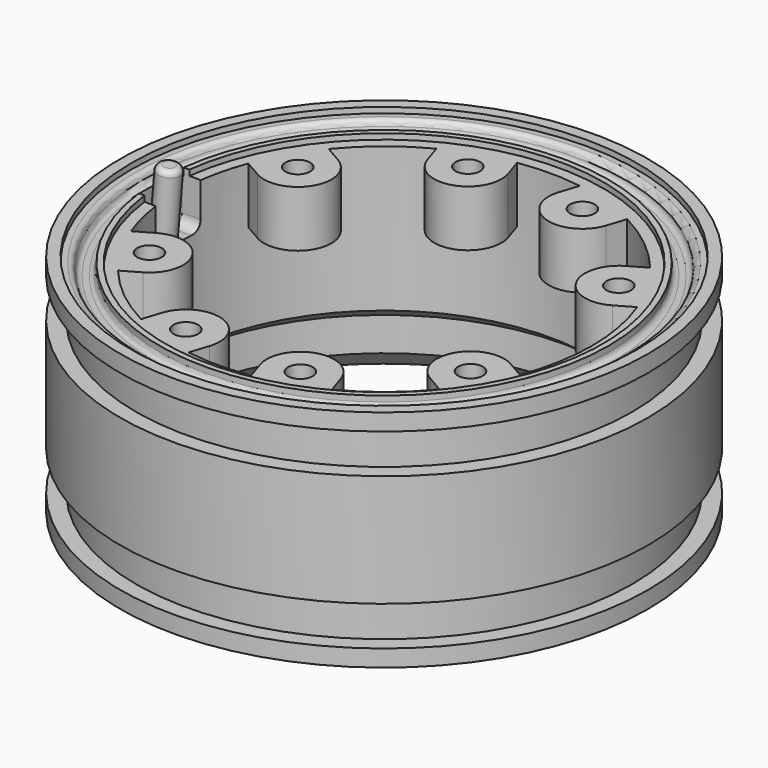
from build123d import *

# Parameters (mm, degrees)
BOX_W                       = 10
BOX_H                       = 5
BOX_DEPTH                   = 5
FILLET_R                    = 1
CYLINDER132_R               = 1.1
CYLINDER132_DEPTH           = 5
BOX015_W                    = 3
BOX015_H                    = 6
BOX015_DEPTH                = 5
CYLINDER133_R               = 3
CYLINDER133_DEPTH           = 5
CUT061009_PLACEMENT_ANGLE   = 108
CYLINDER131_R               = 1.1
CYLINDER131_DEPTH           = 5
BOX014_W                    = 3
BOX014_H                    = 6
BOX014_DEPTH                = 5
CYLINDER130_R               = 3
CYLINDER130_DEPTH           = 5
CUT061008_PLACEMENT_ANGLE   = 72
CYLINDER141_R               = 1.1
CYLINDER141_DEPTH           = 5
BOX019_W                    = 3
BOX019_H                    = 6
BOX019_DEPTH                = 5
CYLINDER140_R               = 3
CYLINDER140_DEPTH           = 5
CUT061013_PLACEMENT_ANGLE   = 150
CYLINDER139_R               = 1.1
CYLINDER139_DEPTH           = 5
BOX018_W                    = 3
BOX018_H                    = 6
BOX018_DEPTH                = 5
CYLINDER138_R               = 3
CYLINDER138_DEPTH           = 5
CUT061012_PLACEMENT_ANGLE   = 108
CYLINDER137_R               = 1.1
CYLINDER137_DEPTH           = 5
BOX017_W                    = 3
BOX017_H                    = 6
BOX017_DEPTH                = 5
CYLINDER136_R               = 3
CYLINDER136_DEPTH           = 5
CUT061011_PLACEMENT_ANGLE   = 72
CYLINDER134_R               = 1.1
CYLINDER134_DEPTH           = 5
BOX016_W                    = 3
BOX016_H                    = 6
BOX016_DEPTH                = 5
CYLINDER135_R               = 3
CYLINDER135_DEPTH           = 5
CUT061010_PLACEMENT_ANGLE   = 210
CYLINDER124_R               = 1.1
CYLINDER124_DEPTH           = 5
BOX012_W                    = 3
BOX012_H                    = 6
BOX012_DEPTH                = 5
CYLINDER125_R               = 3
CYLINDER125_DEPTH           = 5
CUT061003_PLACEMENT_ANGLE   = 30
CYLINDER129_R               = 1.1
CYLINDER129_DEPTH           = 5
BOX013_W                    = 3
BOX013_H                    = 6
BOX013_DEPTH                = 5
CYLINDER128_R               = 3
CYLINDER128_DEPTH           = 5
CUT061007_PLACEMENT_ANGLE   = 30
CYLINDER127_R               = 20
CYLINDER127_DEPTH           = 2
CYLINDER126_R               = 21.5
CYLINDER126_DEPTH           = 2
CYLINDER070_R               = 20
CYLINDER070_DEPTH           = 5
CYLINDER007_R               = 19.5
CYLINDER007_DEPTH           = 1
CYLINDER018_R               = 22.5
CYLINDER018_DEPTH           = 0.5
CYLINDER006_R               = 18.5
CYLINDER006_DEPTH           = 20
CYLINDER002_R               = 22.1
CYLINDER002_DEPTH           = 17
CYLINDER001_R               = 23.5
CYLINDER001_DEPTH           = 17
CYLINDER_R                  = 23.5
CYLINDER_DEPTH              = 20
CYLINDER003_R               = 22
CYLINDER003_DEPTH           = 17
CYLINDER004_R               = 23.5
CYLINDER004_DEPTH           = 10
CHAMFER_SIZE                = 2
FILLET061_R                 = 1.5
FILLET062_R                 = 0.499
FILLET063_R                 = 0.9
CYLINDER232_R               = 1
CYLINDER232_DEPTH           = 10
CYLINDER232_PLACEMENT_ANGLE = 5
FILLET064_R                 = 0.5


with BuildPart() as fillet_body:
    # Box → Box (new body)
    with BuildSketch(Plane(origin=(-19, -2.5, 15), x_dir=(1, 0, 0), z_dir=(0, 0, 1))):
        with Locations((5, 2.5)):
            Rectangle(BOX_W, BOX_H)
    extrude(amount=BOX_DEPTH)

    # Fillet
    fillet_edges = [fillet_body.edges().sort_by_distance(p)[0] for p in [
        (-19, -2.5, 17.5),
        (-19, 2.5, 17.5),
        (-19, 0, 15),
    ]]
    fillet(fillet_edges, radius=FILLET_R)


with BuildPart() as fillet_body_1:
    # Fillet placement: moved
    add(fillet_body.part.moved(Location((-2, 0, 0))))


with BuildPart() as cylinder132:
    # Cylinder132 → Cylinder132 (new body)
    with BuildSketch(Plane(origin=(16.5, 0, 15), x_dir=(1, 0, 0), z_dir=(0, 0, 1))):
        Circle(CYLINDER132_R)
    extrude(amount=CYLINDER132_DEPTH)


with BuildPart() as cube015:
    # Box015 → Box015 (new body)
    with BuildSketch(Plane(origin=(16.5, -3, 15), x_dir=(1, 0, 0), z_dir=(0, 0, 1))):
        with Locations((1.5, 3)):
            Rectangle(BOX015_W, BOX015_H)
    extrude(amount=BOX015_DEPTH)


with BuildPart() as cut061009:
    # Cylinder133 → Cylinder133 (new body)
    with BuildSketch(Plane(origin=(16.5, 0, 15), x_dir=(1, 0, 0), z_dir=(0, 0, 1))):
        Circle(CYLINDER133_R)
    extrude(amount=CYLINDER133_DEPTH)

    # Fusion055: union Cube015
    add(cube015.part)

    # Cut061009: cut Cylinder132
    add(cylinder132.part, mode=Mode.SUBTRACT)


with BuildPart() as cut061009_1:
    # Cut061009 placement: moved
    add(cut061009.part.moved(Location((0, 0, -2))).rotate(Axis((0, 0, -2), (0, 0, -1)), CUT061009_PLACEMENT_ANGLE))


with BuildPart() as cylinder131:
    # Cylinder131 → Cylinder131 (new body)
    with BuildSketch(Plane(origin=(16.5, 0, 15), x_dir=(1, 0, 0), z_dir=(0, 0, 1))):
        Circle(CYLINDER131_R)
    extrude(amount=CYLINDER131_DEPTH)


with BuildPart() as cube014:
    # Box014 → Box014 (new body)
    with BuildSketch(Plane(origin=(16.5, -3, 15), x_dir=(1, 0, 0), z_dir=(0, 0, 1))):
        with Locations((1.5, 3)):
            Rectangle(BOX014_W, BOX014_H)
    extrude(amount=BOX014_DEPTH)


with BuildPart() as cut061008:
    # Cylinder130 → Cylinder130 (new body)
    with BuildSketch(Plane(origin=(16.5, 0, 15), x_dir=(1, 0, 0), z_dir=(0, 0, 1))):
        Circle(CYLINDER130_R)
    extrude(amount=CYLINDER130_DEPTH)

    # Fusion054: union Cube014
    add(cube014.part)

    # Cut061008: cut Cylinder131
    add(cylinder131.part, mode=Mode.SUBTRACT)


with BuildPart() as cut061008_1:
    # Cut061008 placement: moved
    add(cut061008.part.moved(Location((0, 0, -2))).rotate(Axis((0, 0, -2), (0, 0, -1)), CUT061008_PLACEMENT_ANGLE))


with BuildPart() as cylinder141:
    # Cylinder141 → Cylinder141 (new body)
    with BuildSketch(Plane(origin=(16.5, 0, 15), x_dir=(1, 0, 0), z_dir=(0, 0, 1))):
        Circle(CYLINDER141_R)
    extrude(amount=CYLINDER141_DEPTH)


with BuildPart() as cube019:
    # Box019 → Box019 (new body)
    with BuildSketch(Plane(origin=(16.5, -3, 15), x_dir=(1, 0, 0), z_dir=(0, 0, 1))):
        with Locations((1.5, 3)):
            Rectangle(BOX019_W, BOX019_H)
    extrude(amount=BOX019_DEPTH)


with BuildPart() as cut061013:
    # Cylinder140 → Cylinder140 (new body)
    with BuildSketch(Plane(origin=(16.5, 0, 15), x_dir=(1, 0, 0), z_dir=(0, 0, 1))):
        Circle(CYLINDER140_R)
    extrude(amount=CYLINDER140_DEPTH)

    # Fusion059: union Cube019
    add(cube019.part)

    # Cut061013: cut Cylinder141
    add(cylinder141.part, mode=Mode.SUBTRACT)


with BuildPart() as cut061013_1:
    # Cut061013 placement: moved
    add(cut061013.part.moved(Location((0, 0, -2))).rotate(Axis((0, 0, -2), (0, 0, 1)), CUT061013_PLACEMENT_ANGLE))


with BuildPart() as cylinder139:
    # Cylinder139 → Cylinder139 (new body)
    with BuildSketch(Plane(origin=(16.5, 0, 15), x_dir=(1, 0, 0), z_dir=(0, 0, 1))):
        Circle(CYLINDER139_R)
    extrude(amount=CYLINDER139_DEPTH)


with BuildPart() as cube018:
    # Box018 → Box018 (new body)
    with BuildSketch(Plane(origin=(16.5, -3, 15), x_dir=(1, 0, 0), z_dir=(0, 0, 1))):
        with Locations((1.5, 3)):
            Rectangle(BOX018_W, BOX018_H)
    extrude(amount=BOX018_DEPTH)


with BuildPart() as cut061012:
    # Cylinder138 → Cylinder138 (new body)
    with BuildSketch(Plane(origin=(16.5, 0, 15), x_dir=(1, 0, 0), z_dir=(0, 0, 1))):
        Circle(CYLINDER138_R)
    extrude(amount=CYLINDER138_DEPTH)

    # Fusion058: union Cube018
    add(cube018.part)

    # Cut061012: cut Cylinder139
    add(cylinder139.part, mode=Mode.SUBTRACT)


with BuildPart() as cut061012_1:
    # Cut061012 placement: moved
    add(cut061012.part.moved(Location((0, 0, -2))).rotate(Axis((0, 0, -2), (0, 0, 1)), CUT061012_PLACEMENT_ANGLE))


with BuildPart() as cylinder137:
    # Cylinder137 → Cylinder137 (new body)
    with BuildSketch(Plane(origin=(16.5, 0, 15), x_dir=(1, 0, 0), z_dir=(0, 0, 1))):
        Circle(CYLINDER137_R)
    extrude(amount=CYLINDER137_DEPTH)


with BuildPart() as cube017:
    # Box017 → Box017 (new body)
    with BuildSketch(Plane(origin=(16.5, -3, 15), x_dir=(1, 0, 0), z_dir=(0, 0, 1))):
        with Locations((1.5, 3)):
            Rectangle(BOX017_W, BOX017_H)
    extrude(amount=BOX017_DEPTH)


with BuildPart() as cut061011:
    # Cylinder136 → Cylinder136 (new body)
    with BuildSketch(Plane(origin=(16.5, 0, 15), x_dir=(1, 0, 0), z_dir=(0, 0, 1))):
        Circle(CYLINDER136_R)
    extrude(amount=CYLINDER136_DEPTH)

    # Fusion057: union Cube017
    add(cube017.part)

    # Cut061011: cut Cylinder137
    add(cylinder137.part, mode=Mode.SUBTRACT)


with BuildPart() as cut061011_1:
    # Cut061011 placement: moved
    add(cut061011.part.moved(Location((0, 0, -2))).rotate(Axis((0, 0, -2), (0, 0, 1)), CUT061011_PLACEMENT_ANGLE))


with BuildPart() as cylinder134:
    # Cylinder134 → Cylinder134 (new body)
    with BuildSketch(Plane(origin=(16.5, 0, 15), x_dir=(1, 0, 0), z_dir=(0, 0, 1))):
        Circle(CYLINDER134_R)
    extrude(amount=CYLINDER134_DEPTH)


with BuildPart() as cube016:
    # Box016 → Box016 (new body)
    with BuildSketch(Plane(origin=(16.5, -3, 15), x_dir=(1, 0, 0), z_dir=(0, 0, 1))):
        with Locations((1.5, 3)):
            Rectangle(BOX016_W, BOX016_H)
    extrude(amount=BOX016_DEPTH)


with BuildPart() as cut061010:
    # Cylinder135 → Cylinder135 (new body)
    with BuildSketch(Plane(origin=(16.5, 0, 15), x_dir=(1, 0, 0), z_dir=(0, 0, 1))):
        Circle(CYLINDER135_R)
    extrude(amount=CYLINDER135_DEPTH)

    # Fusion056: union Cube016
    add(cube016.part)

    # Cut061010: cut Cylinder134
    add(cylinder134.part, mode=Mode.SUBTRACT)


with BuildPart() as cut061010_1:
    # Cut061010 placement: moved
    add(cut061010.part.moved(Location((0, 0, -2))).rotate(Axis((0, 0, -2), (0, 0, 1)), CUT061010_PLACEMENT_ANGLE))


with BuildPart() as cylinder124:
    # Cylinder124 → Cylinder124 (new body)
    with BuildSketch(Plane(origin=(16.5, 0, 15), x_dir=(1, 0, 0), z_dir=(0, 0, 1))):
        Circle(CYLINDER124_R)
    extrude(amount=CYLINDER124_DEPTH)


with BuildPart() as cube012:
    # Box012 → Box012 (new body)
    with BuildSketch(Plane(origin=(16.5, -3, 15), x_dir=(1, 0, 0), z_dir=(0, 0, 1))):
        with Locations((1.5, 3)):
            Rectangle(BOX012_W, BOX012_H)
    extrude(amount=BOX012_DEPTH)


with BuildPart() as cut061003:
    # Cylinder125 → Cylinder125 (new body)
    with BuildSketch(Plane(origin=(16.5, 0, 15), x_dir=(1, 0, 0), z_dir=(0, 0, 1))):
        Circle(CYLINDER125_R)
    extrude(amount=CYLINDER125_DEPTH)

    # Fusion052: union Cube012
    add(cube012.part)

    # Cut061003: cut Cylinder124
    add(cylinder124.part, mode=Mode.SUBTRACT)


with BuildPart() as cut061003_1:
    # Cut061003 placement: moved
    add(cut061003.part.moved(Location((0, 0, -2))).rotate(Axis((0, 0, -2), (0, 0, -1)), CUT061003_PLACEMENT_ANGLE))


with BuildPart() as cylinder129:
    # Cylinder129 → Cylinder129 (new body)
    with BuildSketch(Plane(origin=(16.5, 0, 15), x_dir=(1, 0, 0), z_dir=(0, 0, 1))):
        Circle(CYLINDER129_R)
    extrude(amount=CYLINDER129_DEPTH)


with BuildPart() as cube013:
    # Box013 → Box013 (new body)
    with BuildSketch(Plane(origin=(16.5, -3, 15), x_dir=(1, 0, 0), z_dir=(0, 0, 1))):
        with Locations((1.5, 3)):
            Rectangle(BOX013_W, BOX013_H)
    extrude(amount=BOX013_DEPTH)


with BuildPart() as fusion060:
    # Cylinder128 → Cylinder128 (new body)
    with BuildSketch(Plane(origin=(16.5, 0, 15), x_dir=(1, 0, 0), z_dir=(0, 0, 1))):
        Circle(CYLINDER128_R)
    extrude(amount=CYLINDER128_DEPTH)

    # Fusion053: union Cube013
    add(cube013.part)

    # Cut061007: cut Cylinder129
    add(cylinder129.part, mode=Mode.SUBTRACT)


with BuildPart() as fusion060_1:
    # Cut061007 placement: moved
    add(fusion060.part.moved(Location((0, 0, -2))).rotate(Axis((0, 0, -2), (0, 0, 1)), CUT061007_PLACEMENT_ANGLE))

    # Fusion060: union Cut061009, Cut061008, Cut061013, Cut061012, Cut061011, Cut061010, Cut061003
    add(cut061009_1.part)
    add(cut061008_1.part)
    add(cut061013_1.part)
    add(cut061012_1.part)
    add(cut061011_1.part)
    add(cut061010_1.part)
    add(cut061003_1.part)


with BuildPart() as fusion060_2:
    # Fusion060 placement: moved
    add(fusion060_1.part.moved(Location((0, 0, 1))))


with BuildPart() as cylinder127:
    # Cylinder127 → Cylinder127 (new body)
    with BuildSketch(Plane.XY.offset(19)):
        Circle(CYLINDER127_R)
    extrude(amount=CYLINDER127_DEPTH)


with BuildPart() as cut061004:
    # Cylinder126 → Cylinder126 (new body)
    with BuildSketch(Plane.XY.offset(19)):
        Circle(CYLINDER126_R)
    extrude(amount=CYLINDER126_DEPTH)

    # Cut061004: cut Cylinder127
    add(cylinder127.part, mode=Mode.SUBTRACT)


with BuildPart() as cut061004_1:
    # Cut061004 placement: moved
    add(cut061004.part.moved(Location((0, 0, -0.5))))


with BuildPart() as cone:
    # Cone → Cone (revolve)
    with BuildSketch(Plane(origin=(0, 0, 5), x_dir=(1, 0, 0), z_dir=(0, -1, 0))):
        Polygon((0, 0), (20, 0), (12, 6), (0, 6), align=None)
    revolve(axis=Axis((0, 0, 5), (0, 0, 1)))


with BuildPart() as cylinder070:
    # Cylinder070 → Cylinder070 (new body)
    with BuildSketch(Plane.XY):
        Circle(CYLINDER070_R)
    extrude(amount=CYLINDER070_DEPTH)


with BuildPart() as cylinder007:
    # Cylinder007 → Cylinder007 (new body)
    with BuildSketch(Plane.XY.offset(19)):
        Circle(CYLINDER007_R)
    extrude(amount=CYLINDER007_DEPTH)


with BuildPart() as cylinder018:
    # Cylinder018 → Cylinder018 (new body)
    with BuildSketch(Plane.XY.offset(19.5)):
        Circle(CYLINDER018_R)
    extrude(amount=CYLINDER018_DEPTH)


with BuildPart() as cylinder006:
    # Cylinder006 → Cylinder006 (new body)
    with BuildSketch(Plane.XY):
        Circle(CYLINDER006_R)
    extrude(amount=CYLINDER006_DEPTH)


with BuildPart() as cylinder002:
    # Cylinder002 → Cylinder002 (new body)
    with BuildSketch(Plane.XY):
        Circle(CYLINDER002_R)
    extrude(amount=CYLINDER002_DEPTH)


with BuildPart() as cut:
    # Cylinder001 → Cylinder001 (new body)
    with BuildSketch(Plane.XY):
        Circle(CYLINDER001_R)
    extrude(amount=CYLINDER001_DEPTH)

    # Cut: cut Cylinder002
    add(cylinder002.part, mode=Mode.SUBTRACT)


with BuildPart() as cut_1:
    # Cut placement: moved
    add(cut.part.moved(Location((0, 0, 1.5))))


with BuildPart() as cut001:
    # Cylinder → Cylinder (new body)
    with BuildSketch(Plane.XY):
        Circle(CYLINDER_R)
    extrude(amount=CYLINDER_DEPTH)

    # Cut001: cut Cut
    add(cut_1.part, mode=Mode.SUBTRACT)


with BuildPart() as cylinder003:
    # Cylinder003 → Cylinder003 (new body)
    with BuildSketch(Plane.XY):
        Circle(CYLINDER003_R)
    extrude(amount=CYLINDER003_DEPTH)


with BuildPart() as fillet063:
    # Cylinder004 → Cylinder004 (new body)
    with BuildSketch(Plane.XY.offset(0.5)):
        Circle(CYLINDER004_R)
    extrude(amount=CYLINDER004_DEPTH)

    # Cut002: cut Cylinder003
    add(cylinder003.part, mode=Mode.SUBTRACT)


with BuildPart() as fillet063_1:
    # Cut002 placement: moved
    add(fillet063.part.moved(Location((0, 0, 4.5))))

    # Fusion: union Cut001
    add(cut001.part)

    # Cut031: cut Cylinder006
    add(cylinder006.part, mode=Mode.SUBTRACT)

    # Cut032: cut Cylinder018
    add(cylinder018.part, mode=Mode.SUBTRACT)

    # Cut033: cut Cylinder007
    add(cylinder007.part, mode=Mode.SUBTRACT)

    # Cut034: cut Cylinder070
    add(cylinder070.part, mode=Mode.SUBTRACT)

    # Cut061005: cut Cone
    add(cone.part, mode=Mode.SUBTRACT)

    # Cut061006: cut Cut061004
    add(cut061004_1.part, mode=Mode.SUBTRACT)

    # Fusion061: union Fusion060
    add(fusion060_2.part)

    # Chamfer
    chamfer_edges = [fillet063_1.edges().sort_by_distance(p)[0] for p in [
        (-20, 0, 0),
    ]]
    chamfer(chamfer_edges, length=CHAMFER_SIZE)

    # Fillet061
    fillet061_edges = [fillet063_1.edges().sort_by_distance(p)[0] for p in [
        (-22, 0, 0),
    ]]
    fillet(fillet061_edges, radius=FILLET061_R)

    # Fillet062
    fillet062_edges = [fillet063_1.edges().sort_by_distance(p)[0] for p in [
        (-20, 0, 18.5),
        (-21.5, 0, 18.5),
        (-21.5, 0, 19.5),
    ]]
    fillet(fillet062_edges, radius=FILLET062_R)

    # Cut061043008: cut Fillet body
    add(fillet_body_1.part, mode=Mode.SUBTRACT)

    # Fillet063
    fillet063_edges = [fillet063_1.edges().sort_by_distance(p)[0] for p in [
        (-19.165151, -2.5, 15),
        (-19.165151, 2.5, 15),
    ]]
    fillet(fillet063_edges, radius=FILLET063_R)


with BuildPart() as obj1:
    # Cylinder232 → Cylinder232 (new body)
    with BuildSketch(Plane.XY):
        Circle(CYLINDER232_R)
    extrude(amount=CYLINDER232_DEPTH)


with BuildPart() as obj1_1:
    # Cylinder232 placement: moved
    add(obj1.part.moved(Location((-20, 0, 11))).rotate(Axis((-20, 0, 11), (0, 1, 0)), CYLINDER232_PLACEMENT_ANGLE))

    # Fillet064
    fillet064_edges = [obj1_1.edges().sort_by_distance(p)[0] for p in [
        (-20.124637, 0, 21.049103),
    ]]
    fillet(fillet064_edges, radius=FILLET064_R)

    # Fusion145: union Fillet063
    add(fillet063_1.part)


solid = obj1_1.part
